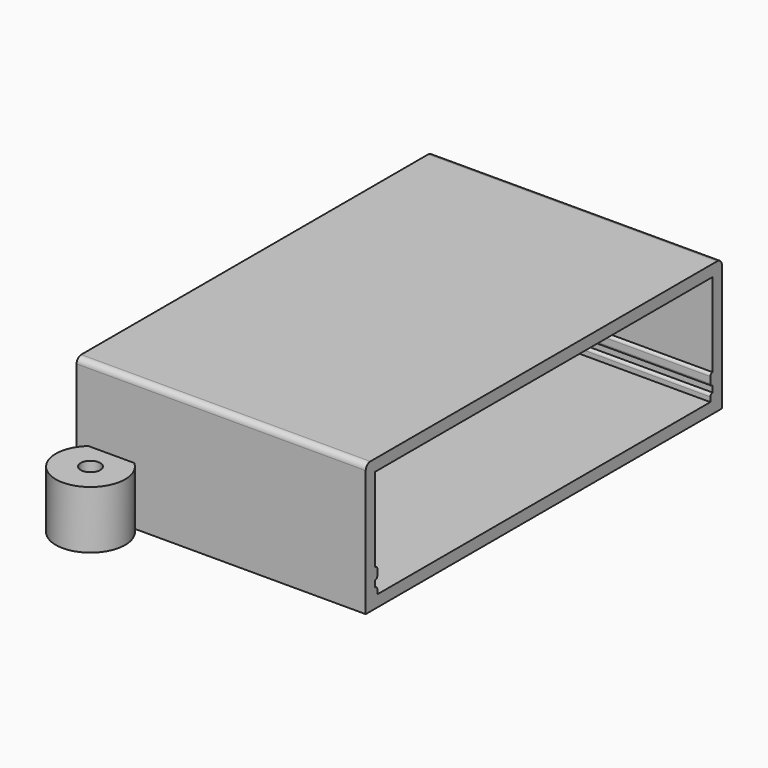
from build123d import *

# Parameters (mm, degrees)
TUBE_R        = 6
TUBE_R_2      = 1.675
TUBE_DEPTH    = 10
SKETCH003_W   = 73
SKETCH003_H   = 18.85
PAD002_DEPTH  = 10
SKETCH002_W   = 0.5
SKETCH002_H   = 1.25
SKETCH002_H_2 = 2
PAD003_DEPTH  = 100
SKETCH001_W   = 50
SKETCH001_H   = 73
PAD001_DEPTH  = 18.85
SKETCH_W      = 50
SKETCH_H      = 77
PAD_DEPTH     = 22.85
FILLET_R      = 0.45
FILLET001_R   = 1


with BuildPart() as tube:
    # Tube → Tube (new body)
    with BuildSketch(Plane(origin=(6, -4.5, 0), x_dir=(1, 0, 0), z_dir=(0, 0, 1))):
        Circle(TUBE_R)
        Circle(TUBE_R_2, mode=Mode.SUBTRACT)
    extrude(amount=TUBE_DEPTH)


with BuildPart() as inner_volume_track_removal:
    # Sketch003 → Pad002 (new body)
    with BuildSketch(Plane.YZ):
        with Locations((36.5, 9.425)):
            Rectangle(SKETCH003_W, SKETCH003_H)
    extrude(amount=PAD002_DEPTH)

    # Sketch002 → Pad003 (join)
    with BuildSketch(Plane.YZ):
        with Locations((0.25, 0.625)):
            Rectangle(SKETCH002_W, SKETCH002_H)
        with Locations((72.75, 0.625)):
            Rectangle(SKETCH002_W, SKETCH002_H)
        with Locations((0.25, 3.35)):
            Rectangle(SKETCH002_W, SKETCH002_H_2)
        with Locations((72.75, 3.35)):
            Rectangle(SKETCH002_W, SKETCH002_H_2)
    extrude(amount=PAD003_DEPTH)


with BuildPart() as inner_volume_track_removal_1:
    # Body002 placement: moved
    add(inner_volume_track_removal.part.moved(Location((-25, 0, 0))))


with BuildPart() as cut:
    # Sketch001 → Pad001 (new body)
    with BuildSketch(Plane.XY):
        with Locations((25, 36.5)):
            Rectangle(SKETCH001_W, SKETCH001_H)
    extrude(amount=PAD001_DEPTH)

    # Cut: cut Inner Volume Track Removal
    add(inner_volume_track_removal_1.part, mode=Mode.SUBTRACT)


with BuildPart() as cut_1:
    # Cut placement: moved
    add(cut.part.moved(Location((0, 2, 2))))


with BuildPart() as relay_case_with_anchor:
    # Sketch → Pad (new body)
    with BuildSketch(Plane.XY):
        with Locations((25, 38.5)):
            Rectangle(SKETCH_W, SKETCH_H)
    extrude(amount=PAD_DEPTH)

    # Cut001: cut Cut
    add(cut_1.part, mode=Mode.SUBTRACT)

    # Fillet
    fillet_edges = [relay_case_with_anchor.edges().sort_by_distance(p)[0] for p in [
        (25, 2.5, 3.25),
        (25, 74.5, 3.25),
        (25, 74.5, 4.35),
        (25, 74.5, 6.35),
        (25, 2.5, 6.35),
        (25, 2.5, 4.35),
    ]]
    fillet(fillet_edges, radius=FILLET_R)

    # Fillet001
    fillet001_edges = [relay_case_with_anchor.edges().sort_by_distance(p)[0] for p in [
        (25, 77, 22.85),
        (25, 0, 22.85),
    ]]
    fillet(fillet001_edges, radius=FILLET001_R)

    # Fusion: union Tube
    add(tube.part)


solid = relay_case_with_anchor.part
